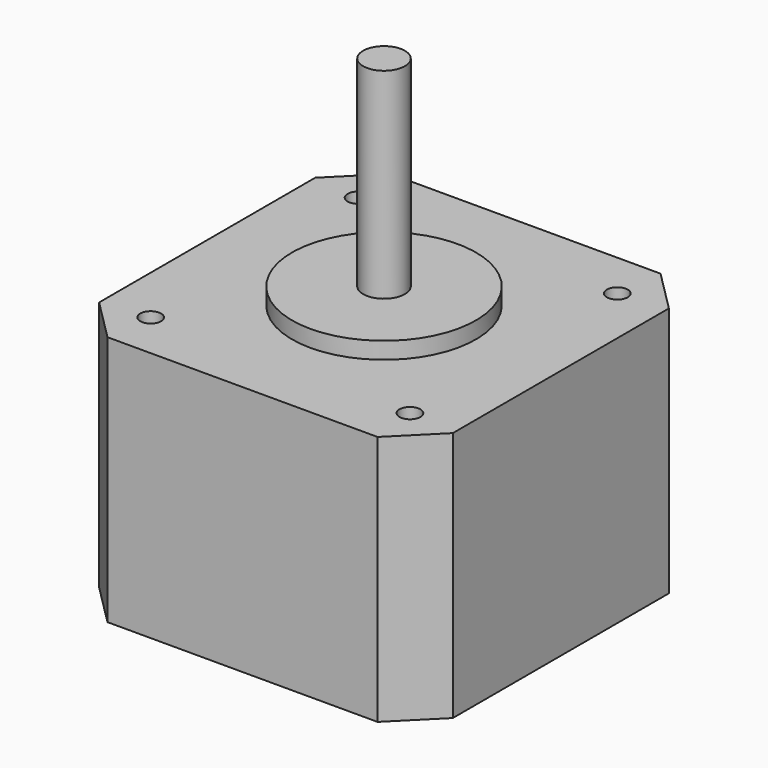
from build123d import *

# Parameters (mm, degrees)
F0_W     = 42.3
F0_H     = 42.3
F1_DEPTH = 30
F2_SIZE  = 5
F5_R     = 1.25
F6_DEPTH = 5


with BuildPart() as f1:
    # F0 (on Top) → F1 (new body)
    with BuildSketch(Plane.XY):
        Rectangle(F0_W, F0_H)
    extrude(amount=F1_DEPTH)

    # F2
    f2_edges = [f1.edges().sort_by_distance(p)[0] for p in [
        (21.15, -21.15, 15),
        (-21.15, -21.15, 15),
        (-21.15, 21.15, 15),
        (21.15, 21.15, 15),
    ]]
    chamfer(f2_edges, length=F2_SIZE)

    # F3 (on Right) → F4 (revolve)
    with BuildSketch(Plane.YZ):
        Polygon((-11, 30), (0, 30), (0, 56), (-2.5, 56), (-2.5, 32), (-11, 32), align=None)
    revolve(axis=Axis((0, 0, 43), (0, 0, 1)))

    # F5 (on face) → F6 (cut)
    with BuildSketch(Plane.XY.offset(30)):
        with Locations((-15.5, 15.5)):
            Circle(F5_R)
        with Locations((15.5, 15.5)):
            Circle(F5_R)
        with Locations((15.5, -15.5)):
            Circle(F5_R)
        with Locations((-15.5, -15.5)):
            Circle(F5_R)
    extrude(amount=-F6_DEPTH, mode=Mode.SUBTRACT)


solid = f1.part
